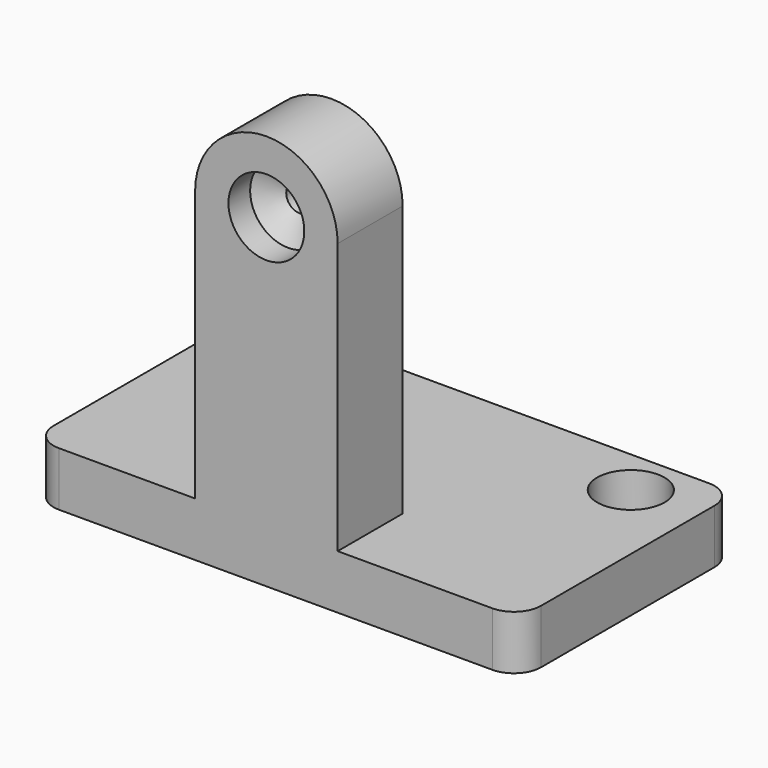
from build123d import *

# Parameters (mm, degrees)
F0_W     = 90
F0_H     = 50
F0_R     = 5.9031202678
F0_R_2   = 6.221473217
F2_DEPTH = 10
F1_W     = 26.3143666089
F1_H     = 50
F3_DEPTH = 15
F4_R     = 5
F5_D     = 14
F5_DEPTH = 5
F5_TIP   = 4.2060243332
F6_D     = 5


with BuildPart() as f2:
    # F0 (on Top) → F2 (new body)
    with BuildSketch(Plane.XY):
        with Locations((1.7176882843, 25)):
            Rectangle(F0_W, F0_H)
        with Locations((-30.9307053685, 40.3467603028)):
            Circle(F0_R, mode=Mode.SUBTRACT)
        with Locations((34.2310518026, 41.3290970027)):
            Circle(F0_R_2, mode=Mode.SUBTRACT)
    extrude(amount=-F2_DEPTH)

    # F1 (on Front) → F3 (join)
    with BuildSketch(Plane.XZ):
        with Locations((0, 25)):
            Rectangle(F1_W, F1_H)
        with BuildLine():
            Line((-13.1571833044, 50), (13.1571833044, 50))
            ThreePointArc((13.1571833044, 50), (0, 63.1571833044), (-13.1571833044, 50))
        make_face()
    extrude(amount=-F3_DEPTH)

    # F4
    f4_edges = [f2.edges().sort_by_distance(p)[0] for p in [
        (46.717688, 0, -5),
        (46.717688, 50, -5),
        (-43.282312, 50, -5),
        (-43.282312, 0, -5),
    ]]
    fillet(f4_edges, radius=F4_R)

    # F5
    with Locations(Plane.XZ):
        with Locations((0, 50)):
            Hole(F5_D / 2, depth=F5_DEPTH)
            with Locations((0, 0, -(F5_DEPTH + F5_TIP / 2))):  # 118° drill point
                Cone(0, F5_D / 2, F5_TIP, mode=Mode.SUBTRACT)

    # F6 (through all)
    with Locations(Plane.XZ):
        with Locations((0, 50)):
            Hole(F6_D / 2)


solid = f2.part
